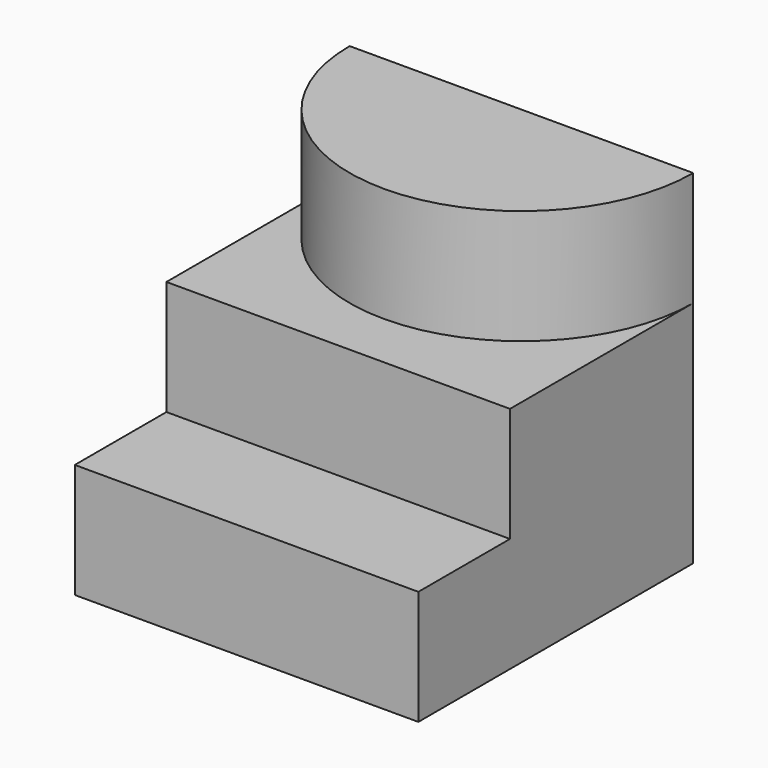
from build123d import *

# Parameters (mm, degrees)
F1_DEPTH = 60
F2_DEPTH = 40
F0_W     = 60
F0_H     = 20
F3_DEPTH = 20


with BuildPart() as f1:
    # F0 (on Top) → F1 (new body)
    with BuildSketch(Plane.XY):
        with BuildLine():
            Line((60, 60), (0, 60))
            ThreePointArc((0, 60), (30, 30), (60, 60))
        make_face()
    extrude(amount=F1_DEPTH)

    # F0 (on Top) → F2 (join)
    with BuildSketch(Plane.XY):
        with BuildLine():
            Line((0, 60), (0, 20))
            Line((0, 20), (60, 20))
            Line((60, 20), (60, 60))
            ThreePointArc((60, 60), (30, 30), (0, 60))
        make_face()
    extrude(amount=F2_DEPTH)

    # F0 (on Top) → F3 (join)
    with BuildSketch(Plane.XY):
        with Locations((30, 10)):
            Rectangle(F0_W, F0_H)
    extrude(amount=F3_DEPTH)


solid = f1.part
